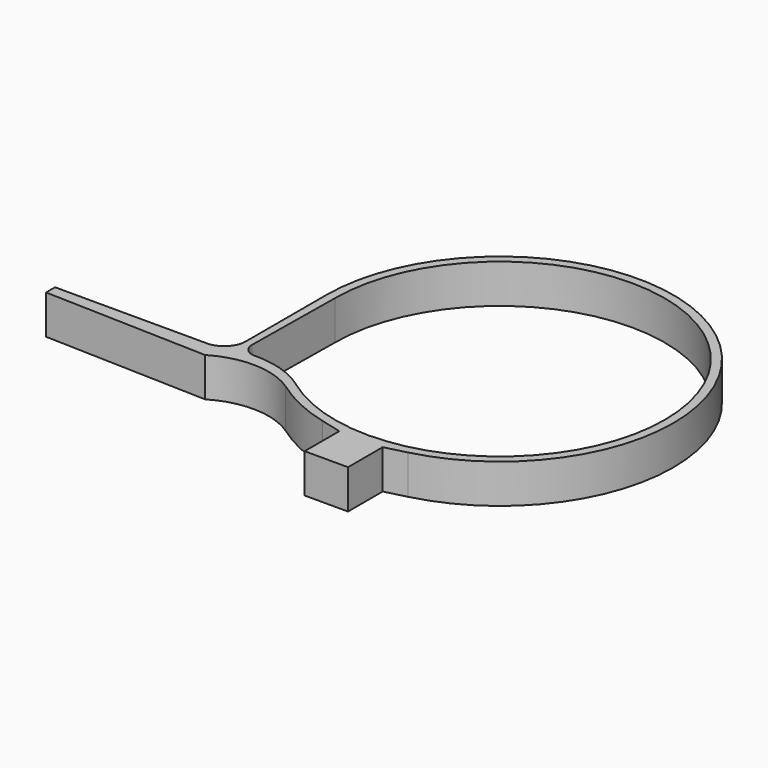
from build123d import *

# Parameters (mm, degrees)
F1_DEPTH = 9


with BuildPart() as f1:
    # F0 (on Top) → F1 (new body)
    with BuildSketch(Plane.XY):
        with BuildLine():
            Line((-9.846154, -38.769231), (-5, -40))
            Line((-5, -40), (-5, -50))
            Line((-5, -50), (5, -50))
            Line((5, -50), (5, -40))
            Line((5, -40), (9.846154, -38.769231))
            ThreePointArc((9.846154, -38.769231), (24.557625, 31.574089), (-40, 0))
            Line((-40, 0), (-40, -23.162289))
            ThreePointArc((-40, -23.162289), (-41.464466, -26.697823), (-45, -28.162289))
            Line((-45, -28.162289), (-80, -28.162289))
            Line((-80, -28.162289), (-80, -30.753131))
            Line((-80, -30.753131), (-42.426797, -31.917549))
            ThreePointArc((-42.426797, -31.917549), (-32.849773, -29.413912), (-23.420478, -32.426551))
            ThreePointArc((-23.420478, -32.426551), (-16.932944, -36.239142), (-9.846154, -38.769231))
        make_face()
        with BuildLine():
            Line((-38.29699, -23.521098), (-38, 0))
            ThreePointArc((-38, 0), (33.844209, 17.279164), (-22.285815, -30.778929))
            ThreePointArc((-22.285815, -30.778929), (-22.479913, -30.637453), (-22.673113, -30.494753))
            ThreePointArc((-22.673113, -30.494753), (-28.646621, -27.517054), (-35.251991, -26.558634))
            ThreePointArc((-35.251991, -26.558634), (-37.415945, -25.682896), (-38.29699, -23.521098))
        make_face(mode=Mode.SUBTRACT)
    extrude(amount=F1_DEPTH)


solid = f1.part
